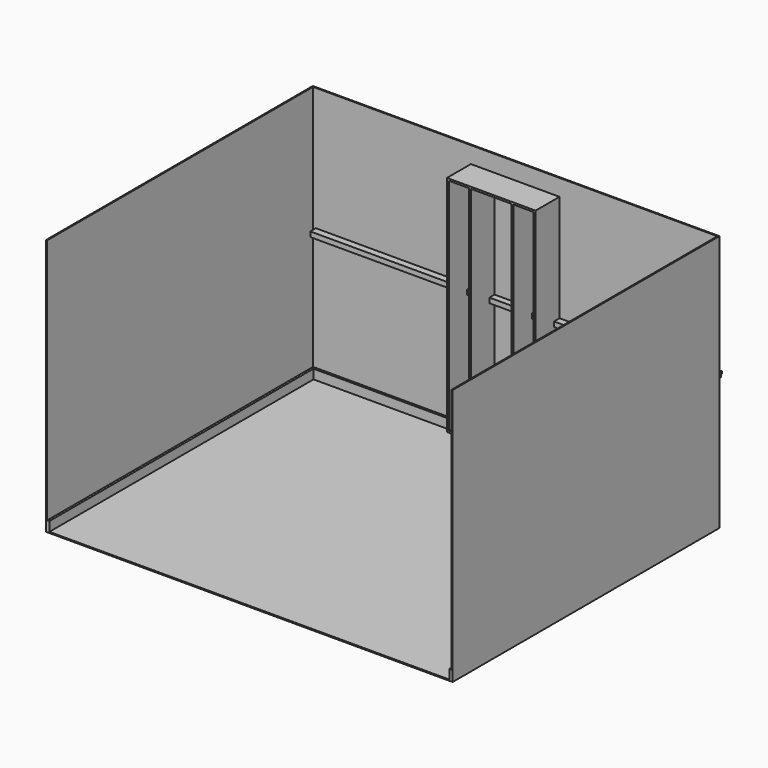
from build123d import *

# Parameters (mm, degrees)
F0_W          = 400
F0_H          = 2020
F0_W_2        = 366
F0_H_2        = 1986
F1_DEPTH      = 280
F2_W          = 4
F2_H          = 1986
F3_DEPTH      = 366
F4_W          = 800
F4_H          = 2020
F4_W_2        = 766
F4_H_2        = 1986
F5_DEPTH      = 280
F6_DEPTH      = 566
F6_DEPTH_BACK = 200
F7_W          = 3670
F7_H          = 2320
F8_DEPTH      = 10
F10_DEPTH     = 3000
F11_W         = 20
F11_H         = 85
F12_DEPTH     = 3000
F13_W         = 20
F13_H         = 85
F14_DEPTH     = 3610
F15_W         = 3600
F15_H         = 145
F16_DEPTH     = 45
F17_W         = 10
F17_H         = 25
F18_DEPTH     = 3600


with BuildPart() as f1:
    # F0 (on Front) → F1 (new body)
    with BuildSketch(Plane.XZ):
        Rectangle(F0_W, F0_H)
        Rectangle(F0_W_2, F0_H_2, mode=Mode.SUBTRACT)
    extrude(amount=F1_DEPTH)

    # F2 (on face) → F3 (join, through all)
    with BuildSketch(Plane.YZ.offset(-183)):
        with Locations((-12, 0)):
            Rectangle(F2_W, F2_H)
    extrude(amount=F3_DEPTH)


with BuildPart() as f5:
    # F4 (on Front) → F5 (new body)
    with BuildSketch(Plane.XZ):
        Rectangle(F4_W, F4_H)
        Rectangle(F4_W_2, F4_H_2, mode=Mode.SUBTRACT)
    extrude(amount=F5_DEPTH)

    # F2 (on face) → F6 (join, two sides)
    with BuildSketch(Plane.YZ.offset(-183)) as f6_sk:
        with Locations((-12, 0)):
            Rectangle(F2_W, F2_H)
    extrude(amount=F6_DEPTH)
    extrude(f6_sk.sketch, amount=-F6_DEPTH_BACK)


with BuildPart() as f8:
    # F7 (on Front) → F8 (new body)
    with BuildSketch(Plane.XZ):
        Rectangle(F7_W, F7_H)
    extrude(amount=F8_DEPTH)

    # F9 (on face) → F10 (join)
    with BuildSketch(Plane.XZ.offset(10)):
        Polygon((-1825, 1160), (-1835, 1160), (-1835, -1160), (1835, -1160), (1835, 1160), (1825, 1160), (1825, -1150), (-1825, -1150), align=None)
    extrude(amount=F10_DEPTH)

    # F11 (on face) → F12 (join, through all)
    with BuildSketch(Plane.XZ.offset(3010)):
        with Locations((-1815, -1107.5)):
            Rectangle(F11_W, F11_H)
        with Locations((1815, -1107.5)):
            Rectangle(F11_W, F11_H)
    extrude(amount=-F12_DEPTH)

    # F13 (on face) → F14 (join, through all)
    with BuildSketch(Plane.YZ.offset(-1805)):
        with Locations((-20, -1107.5)):
            Rectangle(F13_W, F13_H)
    extrude(amount=F14_DEPTH)


with BuildPart() as f16:
    # F15 (on Top) → F16 (new body)
    with BuildSketch(Plane.XY):
        Rectangle(F15_W, F15_H)
    extrude(amount=F16_DEPTH)

    # F17 (on face) → F18 (cut, through all)
    with BuildSketch(Plane.YZ.offset(1800)):
        with Locations((67.5, 12.5)):
            Rectangle(F17_W, F17_H)
    extrude(amount=-F18_DEPTH, mode=Mode.SUBTRACT)


solid = Compound([f1.part, f5.part, f8.part, f16.part])
